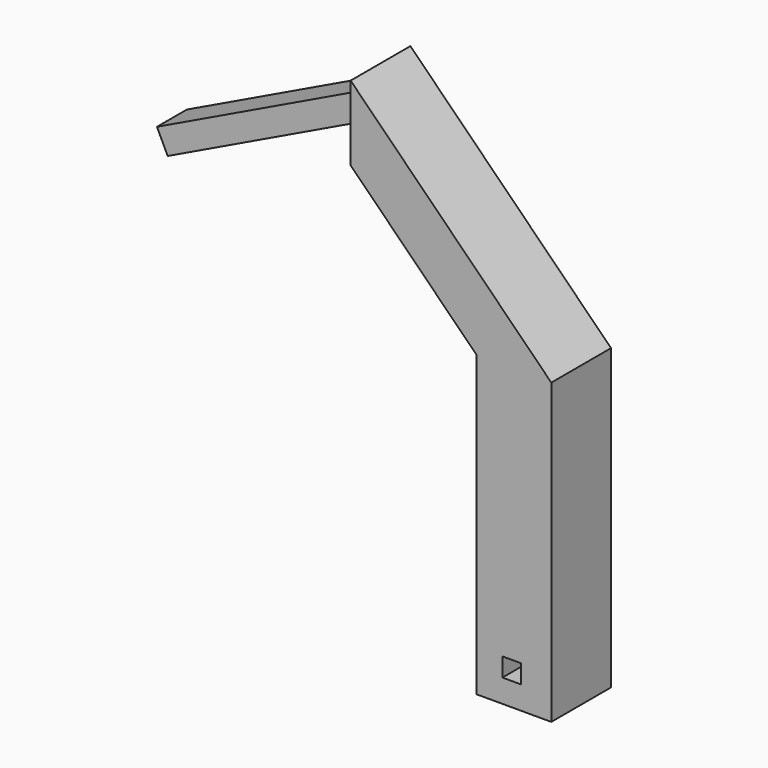
from build123d import *

# Parameters (mm, degrees)
F0_W     = 12.7
F0_H     = 50.8
F0_W_2   = 3.175
F0_H_2   = 3.175
F1_DEPTH = 6.35
F2_DEPTH = 3.175


with BuildPart() as f1:
    # F0 (on Front) → F1 (new body, symmetric)
    with BuildSketch(Plane.XZ):
        Polygon((0, 13.925004), (12.7, 13.925004), (-21.420162, 48.045166), (-21.420162, 45.339696), (-21.420162, 40.685079), (-21.420162, 35.345166), align=None)
        with Locations((6.35, -11.474996)):
            Rectangle(F0_W, F0_H)
        with Locations((5.976701, -31.348965)):
            Rectangle(F0_W_2, F0_H_2, mode=Mode.SUBTRACT)
    extrude(amount=F1_DEPTH, both=True)

    # F0 (on Front) → F2 (join, symmetric)
    with BuildSketch(Plane.XZ):
        Polygon((-21.420162, 40.685079), (-21.420162, 45.339696), (-56.897912, 28.29555), (-55.081078, 24.513772), align=None)
    extrude(amount=F2_DEPTH, both=True)


solid = f1.part
